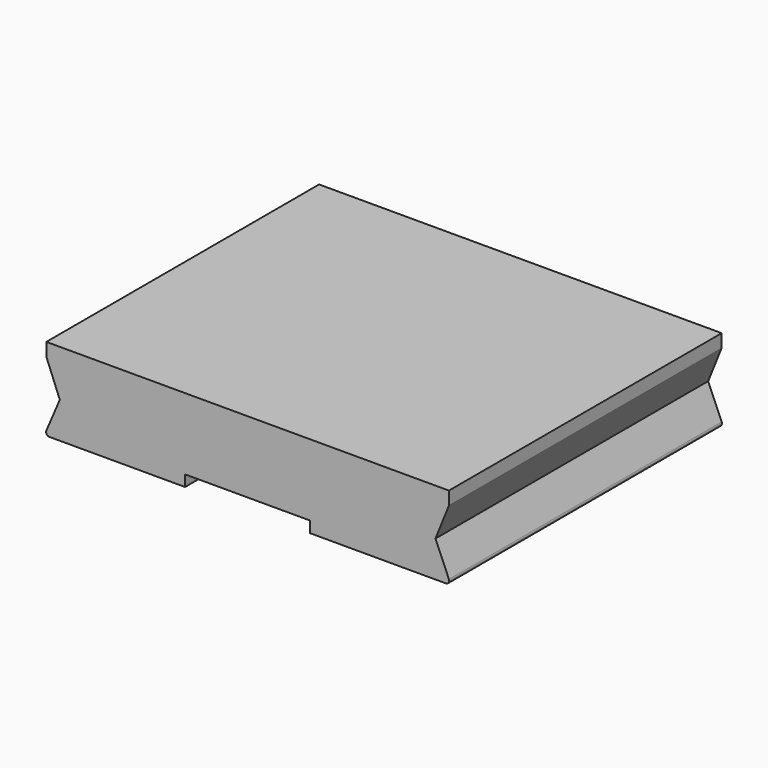
from build123d import *

# Parameters (mm, degrees)
F1_DEPTH = 52


with BuildPart() as f1:
    # F0 (on Front) → F1 (new body)
    with BuildSketch(Plane.XZ):
        with BuildLine():
            Line((-37.073477, 14.565424), (-39.125901, 9.761879))
            ThreePointArc((-39.125901, 9.761879), (-39.083382, 9.28995), (-38.666112, 9.065424))
            Line((-38.666112, 9.065424), (-17.966112, 9.065424))
            Line((-17.966112, 9.065424), (-17.966112, 10.765424))
            Line((-17.966112, 10.765424), (1.119158, 10.765424))
            Line((1.119158, 10.765424), (1.119158, 9.065424))
            Line((1.119158, 9.065424), (21.819158, 9.065424))
            ThreePointArc((21.819158, 9.065424), (22.236428, 9.28995), (22.278947, 9.761879))
            Line((22.278947, 9.761879), (20.226523, 14.565424))
            Line((20.226523, 14.565424), (22.278947, 19.677687))
            Line((22.278947, 19.677687), (22.278947, 21.677687))
            Line((22.278947, 21.677687), (-39.125901, 21.677687))
            Line((-39.125901, 21.677687), (-39.125901, 19.677687))
            Line((-39.125901, 19.677687), (-37.073477, 14.565424))
        make_face()
    extrude(amount=F1_DEPTH)


solid = f1.part
